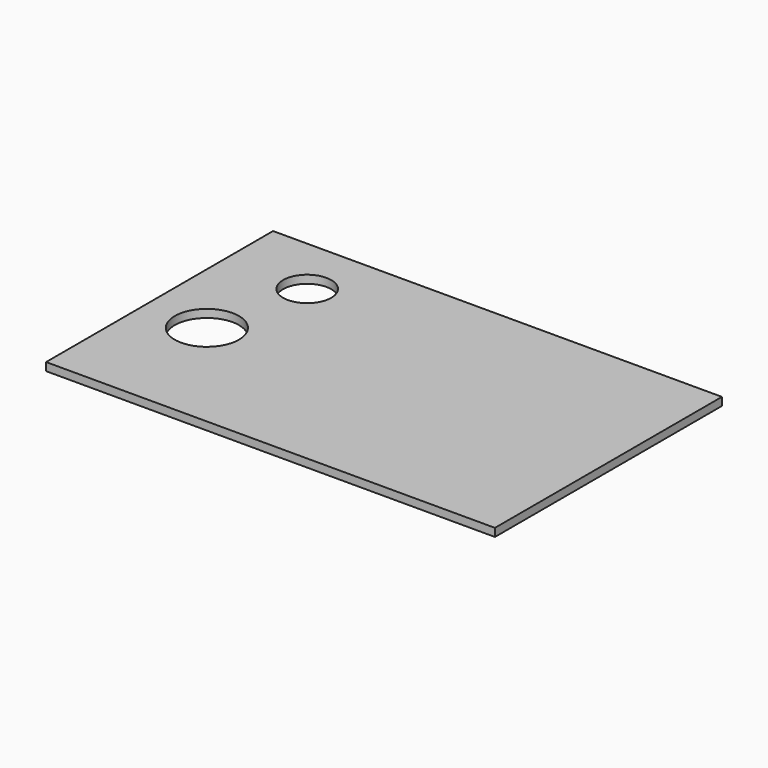
from build123d import *

# Parameters (mm, degrees)
CYLINDER_R        = 3
CYLINDER_DEPTH    = 10
CYLINDER001_R     = 4
CYLINDER001_DEPTH = 10
SKETCH015_W       = 55.926
SKETCH015_H       = 35.3506
EXTRUDE034_DEPTH  = 1


with BuildPart() as cylinder:
    # Cylinder → Cylinder (new body)
    with BuildSketch(Plane(origin=(-7.5, -11.5, 4), x_dir=(1, 0, 0), z_dir=(0, 0, 1))):
        Circle(CYLINDER_R)
    extrude(amount=CYLINDER_DEPTH)


with BuildPart() as cylinder001:
    # Cylinder001 → Cylinder001 (new body)
    with BuildSketch(Plane(origin=(-10, -24, 4), x_dir=(1, 0, 0), z_dir=(0, 0, 1))):
        Circle(CYLINDER001_R)
    extrude(amount=CYLINDER001_DEPTH)


with BuildPart() as cut001:
    # Sketch015 (on Face6 of Extrude027) → Extrude034 (new body)
    with BuildSketch(Plane.XY.offset(5.6)):
        with Locations((10.249, -21.7237)):
            Rectangle(SKETCH015_W, SKETCH015_H)
    extrude(amount=EXTRUDE034_DEPTH)

    # Cut: cut Cylinder001
    add(cylinder001.part, mode=Mode.SUBTRACT)

    # Cut001: cut Cylinder
    add(cylinder.part, mode=Mode.SUBTRACT)


solid = cut001.part
